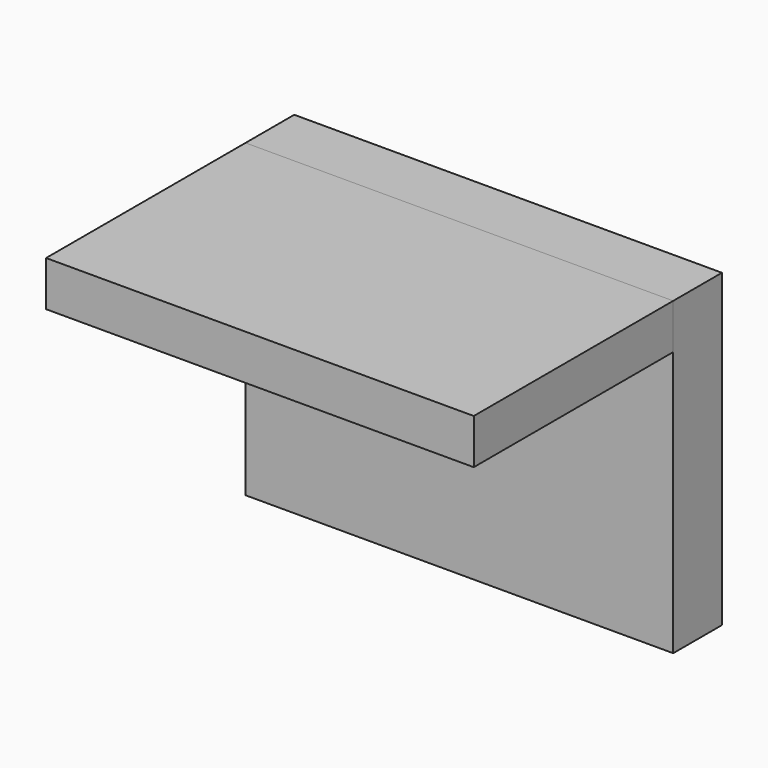
from build123d import *

# Parameters (mm, degrees)
F0_W     = 105.056722
F0_H     = 11.073545
F1_DEPTH = 76.2
F2_W     = 105.056722
F2_H     = 14.959126
F3_DEPTH = 76.2


with BuildPart() as f1:
    # F0 (on Front) → F1 (new body)
    with BuildSketch(Plane.XZ):
        with Locations((-11.073543, 46.849623)):
            Rectangle(F0_W, F0_H)
    extrude(amount=F1_DEPTH)


with BuildPart() as f3:
    # F2 (on face) → F3 (new body)
    with BuildSketch(Plane.XY.offset(52.386396)):
        with Locations((-11.073543, -7.479563)):
            Rectangle(F2_W, F2_H)
    extrude(amount=-F3_DEPTH)


solid = Compound([f1.part, f3.part])
